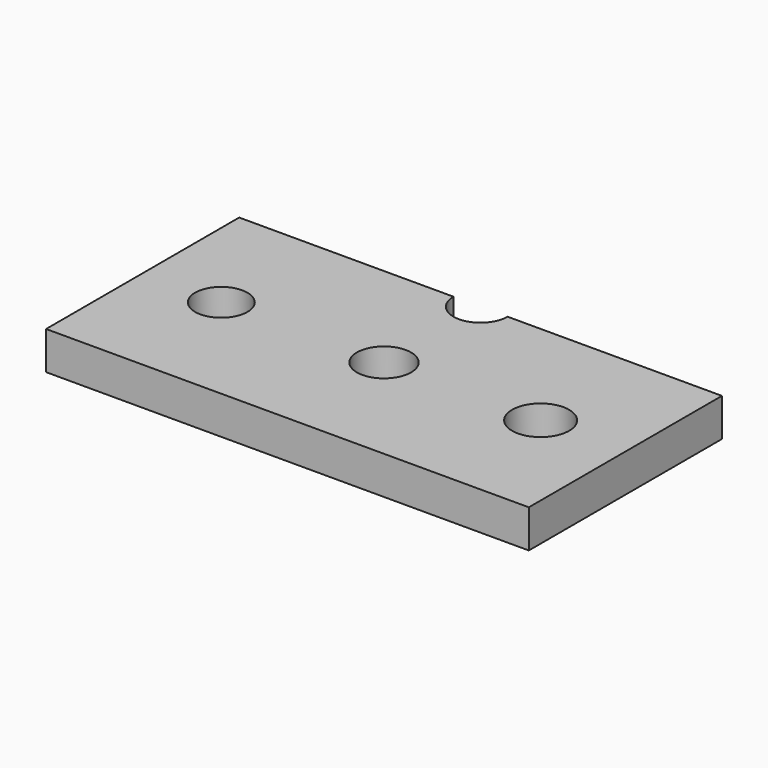
from build123d import *

# Parameters (mm, degrees)
F0_W     = 25.4
F0_H     = 12.7
F1_DEPTH = 2
F2_D     = 2.85
F3_D     = 3
F4_D     = 2.75


with BuildPart() as f1:
    # F0 (on Top) → F1 (new body)
    with BuildSketch(Plane.XY):
        Rectangle(F0_W, F0_H)
    extrude(amount=F1_DEPTH)

    # F2 (through all)
    with Locations(Plane(origin=(0, 0, 0), x_dir=(1, 0, 0), z_dir=(0, 0, -1))):
        with Locations((0, 0), (0, -6.35)):
            Hole(F2_D / 2)

    # F3 (through all)
    with Locations(Plane(origin=(0, 0, 0), x_dir=(1, 0, 0), z_dir=(0, 0, -1))):
        with Locations((8.2410294563, 0)):
            Hole(F3_D / 2)

    # F4 (through all)
    with Locations(Plane(origin=(0, 0, 0), x_dir=(1, 0, 0), z_dir=(0, 0, -1))):
        with Locations((-8.5610700771, 0)):
            Hole(F4_D / 2)


solid = f1.part
